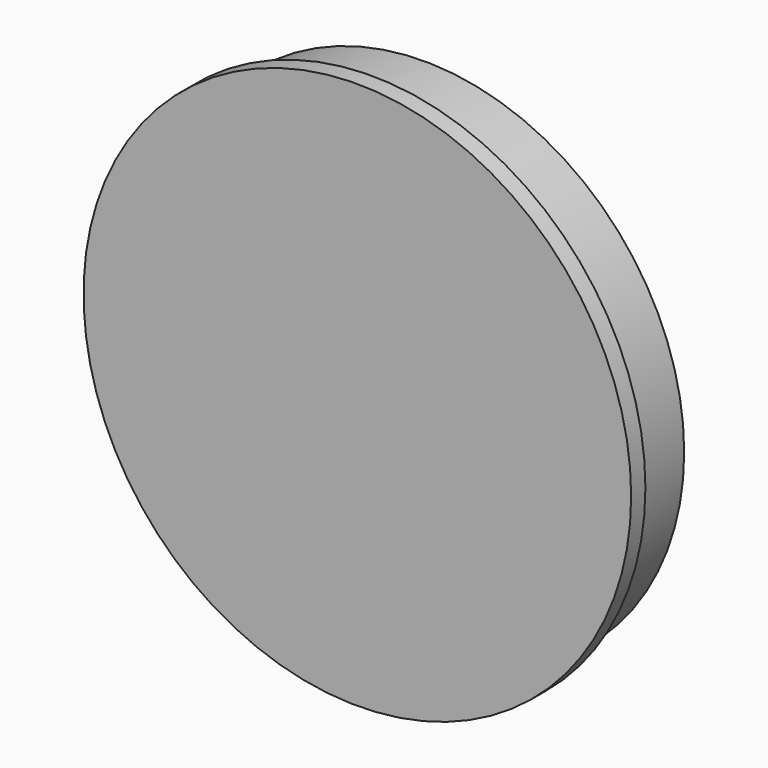
from build123d import *

# Parameters (mm, degrees)
SKETCH001_R = 68.61574
PAD_DEPTH   = 18


with BuildPart() as part:
    # Sketch → Revolution (revolve)
    with BuildSketch(Plane.XY):
        with BuildLine():
            Line((0, 0), (68.71, 0))
            Line((68.71, 0), (72.71, 0))
            Line((72.71, 0), (72.71, 4.73))
            Line((72.71, 4.73), (68.96, 4.73))
            Line((68.96, 4.73), (68.96, 22.29))
            ThreePointArc((0, 12.35), (34.827971, 14.905909), (68.96, 22.29))
            Line((0, 12.35), (0, 0))
        make_face()
    revolve(axis=Axis((0, 0, 0), (0, 1, 0)))

    # Sketch001 (on DatumPlane) → Pad (new body)
    with BuildSketch(Plane(origin=(0, 4.358878, 0), x_dir=(-1, 0, 0), z_dir=(0, 1, 0))):
        Circle(SKETCH001_R)
        with BuildLine():
            ThreePointArc((45.123091, 34.867908), (33.518525, 46.134291), (19.217549, 53.689385))
            ThreePointArc((-19.217549, 53.689385), (0, 37.520215), (19.217549, 53.689385))
            ThreePointArc((-19.217549, 53.689385), (-33.518525, 46.134291), (-45.123091, 34.867908))
            ThreePointArc((-57.000189, -1.686043), (-35.683845, 11.594384), (-45.123091, 34.867908))
            ThreePointArc((-57.000189, -1.686043), (-54.234112, -17.621731), (-47.105153, -32.139833))
            ThreePointArc((-16.010505, -54.731417), (-22.053829, -30.354491), (-47.105153, -32.139833))
            ThreePointArc((-16.010505, -54.731417), (0, -57.02512), (16.010505, -54.731417))
            ThreePointArc((47.105153, -32.139833), (22.053829, -30.354491), (16.010505, -54.731417))
            ThreePointArc((47.105153, -32.139833), (54.234112, -17.621731), (57.000189, -1.686043))
            ThreePointArc((45.123091, 34.867908), (35.683845, 11.594384), (57.000189, -1.686043))
        make_face(mode=Mode.SUBTRACT)
    extrude(amount=PAD_DEPTH)


solid = part.part
